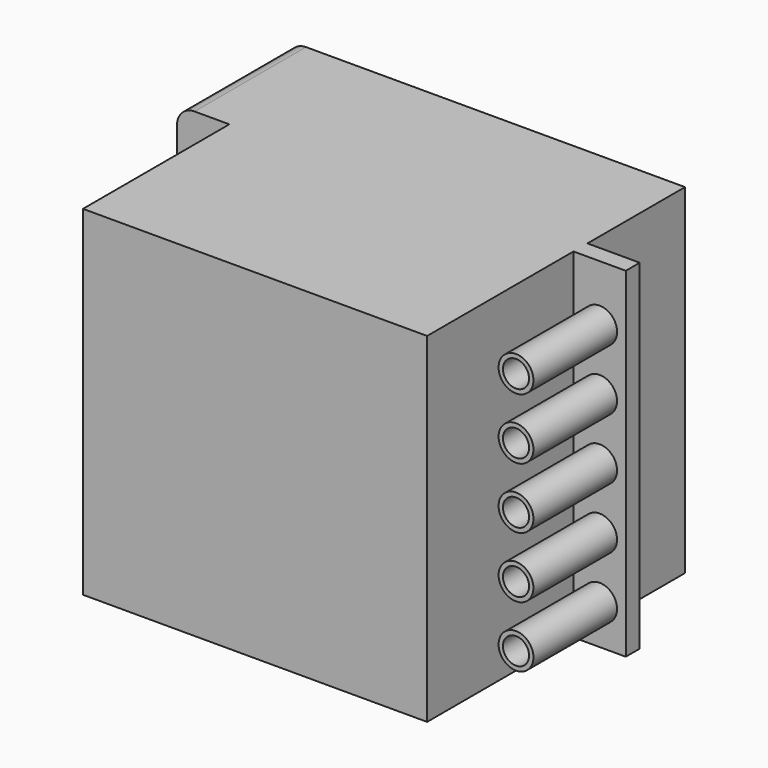
from build123d import *

# Parameters (mm, degrees)
F0_W     = 51.5
F0_H     = 37
F1_DEPTH = 39
F2_W     = 6
F2_H     = 21
F2_H_2   = 14
F3_DEPTH = 39.001
F4_R     = 2
F4_R_2   = 1.5
F5_DEPTH = 12
F6_R     = 2


with BuildPart() as f1:
    # F0 (on Top) → F1 (new body)
    with BuildSketch(Plane.XY):
        with Locations((25.75, 18.5)):
            Rectangle(F0_W, F0_H)
    extrude(amount=F1_DEPTH)

    # F2 (on face) → F3 (cut, through all)
    with BuildSketch(Plane(origin=(0, 0, 0), x_dir=(1, 0, 0), z_dir=(0, 0, -1))):
        with Locations((3, -10.5)):
            Rectangle(F2_W, F2_H)
        with Locations((48.5, -10.5)):
            Rectangle(F2_W, F2_H)
        with Locations((48.5, -30)):
            Rectangle(F2_W, F2_H_2)
    extrude(amount=-F3_DEPTH, mode=Mode.SUBTRACT)

    # F4 (on face) → F5 (join)
    with BuildSketch(Plane.XZ.offset(-21)):
        with Locations((48.5, 4.5)):
            Circle(F4_R)
        with Locations((48.5, 4.5)):
            Circle(F4_R_2, mode=Mode.SUBTRACT)
        with Locations((48.5, 11.5)):
            Circle(F4_R)
        with Locations((48.5, 11.5)):
            Circle(F4_R_2, mode=Mode.SUBTRACT)
        with Locations((48.5, 18.5)):
            Circle(F4_R)
        with Locations((48.5, 18.5)):
            Circle(F4_R_2, mode=Mode.SUBTRACT)
        with Locations((48.5, 25.5)):
            Circle(F4_R)
        with Locations((48.5, 25.5)):
            Circle(F4_R_2, mode=Mode.SUBTRACT)
        with Locations((48.5, 32.5)):
            Circle(F4_R)
        with Locations((48.5, 32.5)):
            Circle(F4_R_2, mode=Mode.SUBTRACT)
    extrude(amount=F5_DEPTH)

    # F6
    f6_edges = [f1.edges().sort_by_distance(p)[0] for p in [
        (0, 29, 0),
        (0, 29, 39),
    ]]
    fillet(f6_edges, radius=F6_R)


solid = f1.part
